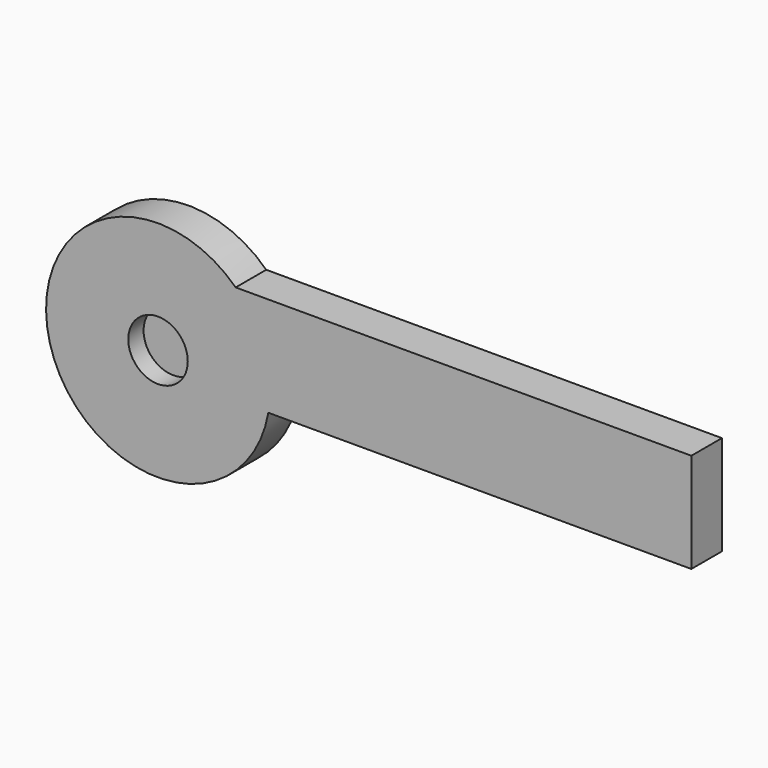
from build123d import *

# Parameters (mm, degrees)
F1_DEPTH = 2.54
F2_R     = 1.976852
F3_DEPTH = 1.27


with BuildPart() as f1:
    # F0 (on Front) → F1 (new body)
    with BuildSketch(Plane.XZ):
        with BuildLine():
            ThreePointArc((-52.517119, 54.244883), (-52.435583, 54.876454), (-52.408337, 55.512683))
            ThreePointArc((-52.408337, 55.512683), (-53.001839, 58.425014), (-54.687683, 60.872839))
            ThreePointArc((-54.687683, 60.872839), (-66.923136, 53.196503), (-52.517119, 54.244883))
        make_face()
        with BuildLine():
            ThreePointArc((-54.687683, 60.872839), (-53.001839, 58.425014), (-52.408337, 55.512683))
            ThreePointArc((-52.408337, 55.512683), (-52.435583, 54.876454), (-52.517119, 54.244883))
            Line((-52.517119, 54.244883), (-24.395395, 54.244883))
            Line((-24.395395, 54.244883), (-24.395395, 60.872839))
            Line((-24.395395, 60.872839), (-54.687683, 60.872839))
        make_face()
    extrude(amount=F1_DEPTH)

    # F2 (on face) → F3 (cut)
    with BuildSketch(Plane.XZ.offset(2.54)):
        with Locations((-59.850537, 55.512683)):
            Circle(F2_R)
    extrude(amount=-F3_DEPTH, mode=Mode.SUBTRACT)


solid = f1.part
